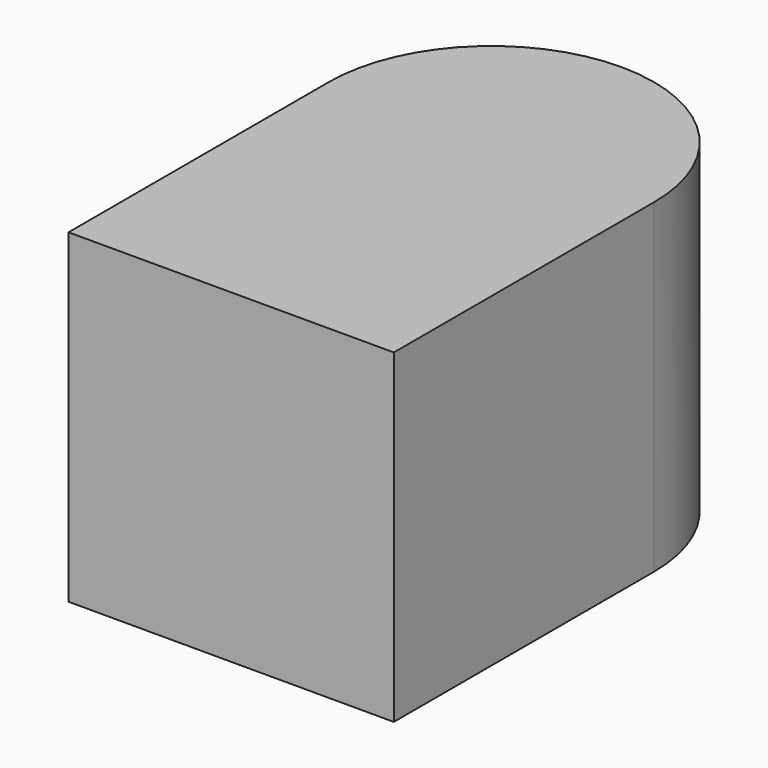
from build123d import *

# Parameters (mm, degrees)
F0_W     = 50.8
F0_H     = 50.8
F1_DEPTH = 50.8
F2_DEPTH = 50.8


with BuildPart() as f1:
    # F0 (on Top) → F1 (new body)
    with BuildSketch(Plane.XY):
        with Locations((-0.414945, 4.616797)):
            Rectangle(F0_W, F0_H)
    extrude(amount=F1_DEPTH)

    # F0 (on Top) → F2 (join)
    with BuildSketch(Plane.XY):
        with BuildLine():
            ThreePointArc((24.985055, 30.016797), (-0.414945, 55.416797), (-25.814945, 30.016797))
            Line((-25.814945, 30.016797), (24.985055, 30.016797))
        make_face()
    extrude(amount=F2_DEPTH)


solid = f1.part
